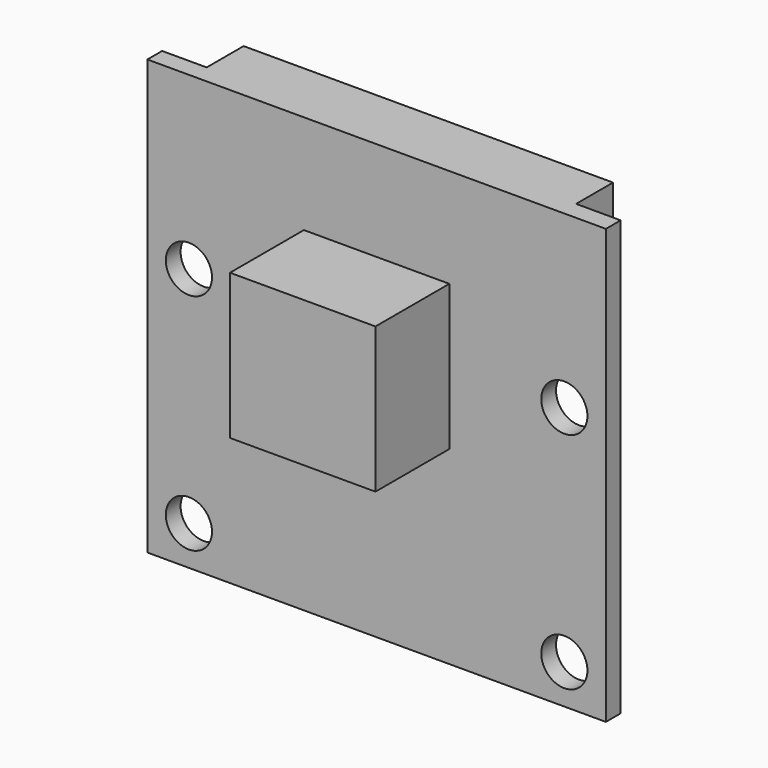
from build123d import *

# Parameters (mm, degrees)
F0_W     = 25.2222
F0_H     = 23.876
F0_R     = 1.27
F1_DEPTH = 1.016
F2_W     = 8.001
F2_H     = 8.001
F3_DEPTH = 5.08
F4_W     = 20.32
F4_H     = 5.461
F5_DEPTH = 2.54


with BuildPart() as f1:
    # F0 (on Front) → F1 (new body)
    with BuildSketch(Plane.XZ):
        Rectangle(F0_W, F0_H)
        with Locations((-10.3251, -9.779)):
            Circle(F0_R, mode=Mode.SUBTRACT)
        with Locations((10.3251, -9.779)):
            Circle(F0_R, mode=Mode.SUBTRACT)
        with Locations((-10.3251, 2.54)):
            Circle(F0_R, mode=Mode.SUBTRACT)
        with Locations((10.3251, 2.54)):
            Circle(F0_R, mode=Mode.SUBTRACT)
    extrude(amount=-F1_DEPTH)

    # F2 (on face) → F3 (join)
    with BuildSketch(Plane.XZ):
        with Locations((0, 2.4765)):
            Rectangle(F2_W, F2_H)
    extrude(amount=F3_DEPTH)

    # F4 (on face) → F5 (join)
    with BuildSketch(Plane(origin=(0, 1.016, 0), x_dir=(-1, 0, 0), z_dir=(0, 1, 0))):
        with Locations((0, 9.2075)):
            Rectangle(F4_W, F4_H)
    extrude(amount=F5_DEPTH)


solid = f1.part
